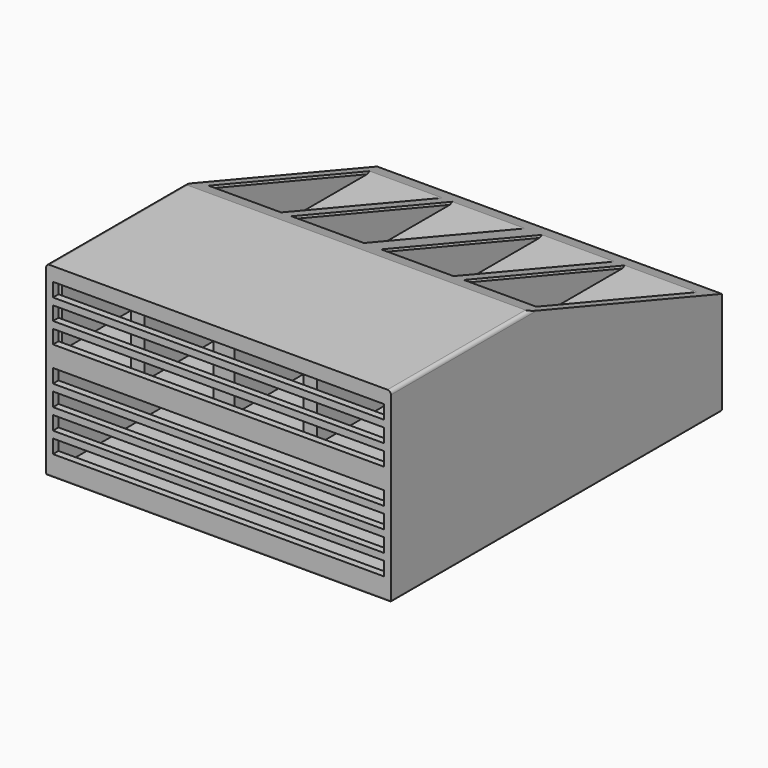
from build123d import *

# Parameters (mm, degrees)
SKETCH_W        = 100
SKETCH_H        = 120
PAD_DEPTH       = 30
SKETCH001_W     = 98
SKETCH001_H     = 28
POCKET_DEPTH    = 118
POCKET006_DEPTH = 2
PAD001_DEPTH    = 100
SKETCH012_W     = 20
SKETCH012_H     = 20
POCKET011_DEPTH = 118
SKETCH016_W     = 96
SKETCH016_H     = 4
POCKET012_DEPTH = 2
SKETCH014_W     = 96
SKETCH014_H     = 4
POCKET013_DEPTH = 2
SKETCH013_W     = 96
SKETCH013_H     = 4
POCKET014_DEPTH = 2
SKETCH009_W     = 96
SKETCH009_H     = 4
POCKET015_DEPTH = 2
SKETCH003_W     = 96
SKETCH003_H     = 4
POCKET016_DEPTH = 2
SKETCH007_W     = 96
SKETCH007_H     = 4
POCKET017_DEPTH = 2
SKETCH008_W     = 96
SKETCH008_H     = 4
POCKET018_DEPTH = 2
FILLET_R        = 0.5
FILLET001_R     = 1
FILLET002_R     = 1
CHAMFER_SIZE    = 0.5
CHAMFER001_SIZE = 0.5


with BuildPart() as part:
    # Sketch → Pad (new body)
    with BuildSketch(Plane.XY):
        Rectangle(SKETCH_W, SKETCH_H)
    extrude(amount=PAD_DEPTH)

    # Sketch001 → Pocket (cut)
    with BuildSketch(Plane.XZ.offset(58)):
        with Locations((0, 15)):
            Rectangle(SKETCH001_W, SKETCH001_H)
    extrude(amount=-POCKET_DEPTH, mode=Mode.SUBTRACT)

    # Sketch010 → Pocket006 (cut)
    with BuildSketch(Plane.XY):
        with BuildLine():
            Line((-3.5, 46.062178), (3.5, 46.062178))
            Line((3.5, 46.062178), (3.5, 36.062178))
            ThreePointArc((-3.5, 36.062178), (0, 23), (3.5, 36.062178))
            Line((-3.5, 36.062178), (-3.5, 46.062178))
        make_face()
    extrude(amount=POCKET006_DEPTH, mode=Mode.SUBTRACT)

    # Sketch011 → Pad001 (join)
    with BuildSketch(Plane.YZ.offset(50)):
        Polygon((60, 30), (-60, 30), (-60, 54), (-10, 54), align=None)
    extrude(amount=-PAD001_DEPTH)

    # Sketch012 → Pocket011 (cut)
    with BuildSketch(Plane.XZ.offset(58)):
        with Locations((37, 42)):
            Rectangle(SKETCH012_W, SKETCH012_H)
        with Locations((13, 42)):
            Rectangle(SKETCH012_W, SKETCH012_H)
        with Locations((-13, 42)):
            Rectangle(SKETCH012_W, SKETCH012_H)
        with Locations((-37, 42)):
            Rectangle(SKETCH012_W, SKETCH012_H)
    extrude(amount=-POCKET011_DEPTH, mode=Mode.SUBTRACT)

    # Sketch016 → Pocket012 (cut)
    with BuildSketch(Plane.XZ.offset(60)):
        with Locations((0, 48)):
            Rectangle(SKETCH016_W, SKETCH016_H)
    extrude(amount=-POCKET012_DEPTH, mode=Mode.SUBTRACT)

    # Sketch014 → Pocket013 (cut)
    with BuildSketch(Plane.XZ.offset(60)):
        with Locations((0, 42)):
            Rectangle(SKETCH014_W, SKETCH014_H)
    extrude(amount=-POCKET013_DEPTH, mode=Mode.SUBTRACT)

    # Sketch013 → Pocket014 (cut)
    with BuildSketch(Plane.XZ.offset(60)):
        with Locations((0, 36)):
            Rectangle(SKETCH013_W, SKETCH013_H)
    extrude(amount=-POCKET014_DEPTH, mode=Mode.SUBTRACT)

    # Sketch009 → Pocket015 (cut)
    with BuildSketch(Plane.XZ.offset(60)):
        with Locations((0, 26)):
            Rectangle(SKETCH009_W, SKETCH009_H)
    extrude(amount=-POCKET015_DEPTH, mode=Mode.SUBTRACT)

    # Sketch003 → Pocket016 (cut)
    with BuildSketch(Plane.XZ.offset(60)):
        with Locations((0.01379, 20)):
            Rectangle(SKETCH003_W, SKETCH003_H)
    extrude(amount=-POCKET016_DEPTH, mode=Mode.SUBTRACT)

    # Sketch007 → Pocket017 (cut)
    with BuildSketch(Plane.XZ.offset(60)):
        with Locations((0, 14)):
            Rectangle(SKETCH007_W, SKETCH007_H)
    extrude(amount=-POCKET017_DEPTH, mode=Mode.SUBTRACT)

    # Sketch008 → Pocket018 (cut)
    with BuildSketch(Plane.XZ.offset(60)):
        with Locations((0, 8)):
            Rectangle(SKETCH008_W, SKETCH008_H)
    extrude(amount=-POCKET018_DEPTH, mode=Mode.SUBTRACT)

    # Fillet
    fillet_edges = [part.edges().sort_by_distance(p)[0] for p in [
        (0, -60, 0),
        (-50, 0, 0),
        (50, 0, 0),
        (0, 60, 0),
    ]]
    fillet(fillet_edges, radius=FILLET_R)

    # Fillet001
    fillet001_edges = [part.edges().sort_by_distance(p)[0] for p in [
        (50, -35, 54),
    ]]
    fillet(fillet001_edges, radius=FILLET001_R)

    # Fillet002
    fillet002_edges = [part.edges().sort_by_distance(p)[0] for p in [
        (-50, -35, 54),
    ]]
    fillet(fillet002_edges, radius=FILLET002_R)

    # Chamfer
    chamfer_edges = [part.edges().sort_by_distance(p)[0] for p in [
        (47, 25, 42),
        (27, 25, 42),
        (23, 25, 42),
        (3, 25, 42),
        (-3, 25, 42),
        (-23, 25, 42),
        (-27, 25, 42),
        (-47, 25, 42),
    ]]
    chamfer(chamfer_edges, length=CHAMFER_SIZE)

    # Chamfer001
    chamfer001_edges = [part.edges().sort_by_distance(p)[0] for p in [
        (3.5, 41.062178, 1),
        (0, 23, 1),
        (-3.5, 41.062178, 1),
    ]]
    chamfer(chamfer001_edges, length=CHAMFER001_SIZE)


solid = part.part
